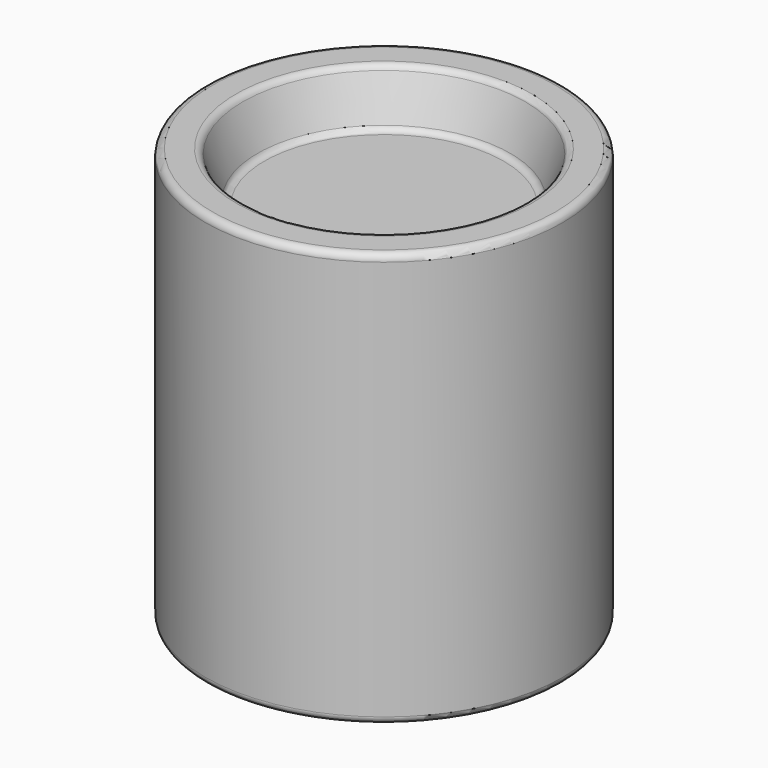
from build123d import *

# Parameters (mm, degrees)
SKETCH_R     = 25
PAD_DEPTH    = 58
SKETCH001_R  = 20
POCKET_DEPTH = 7
POCKET_TAPER = 20
FILLET_R     = 1


with BuildPart() as part:
    # Sketch → Pad (new body)
    with BuildSketch(Plane.XY):
        Circle(SKETCH_R)
    extrude(amount=PAD_DEPTH)

    # Sketch001 → Pocket (cut)
    with BuildSketch(Plane.XY.offset(58)):
        Circle(SKETCH001_R)
    extrude(amount=-POCKET_DEPTH, taper=POCKET_TAPER, mode=Mode.SUBTRACT)

    # Fillet
    fillet_edges = [part.edges().sort_by_distance(p)[0] for p in [
        (-25, 0, 58),
        (-25, 0, 0),
        (-20, 0, 58),
        (-17.452208, 0, 51),
    ]]
    fillet(fillet_edges, radius=FILLET_R)


solid = part.part
